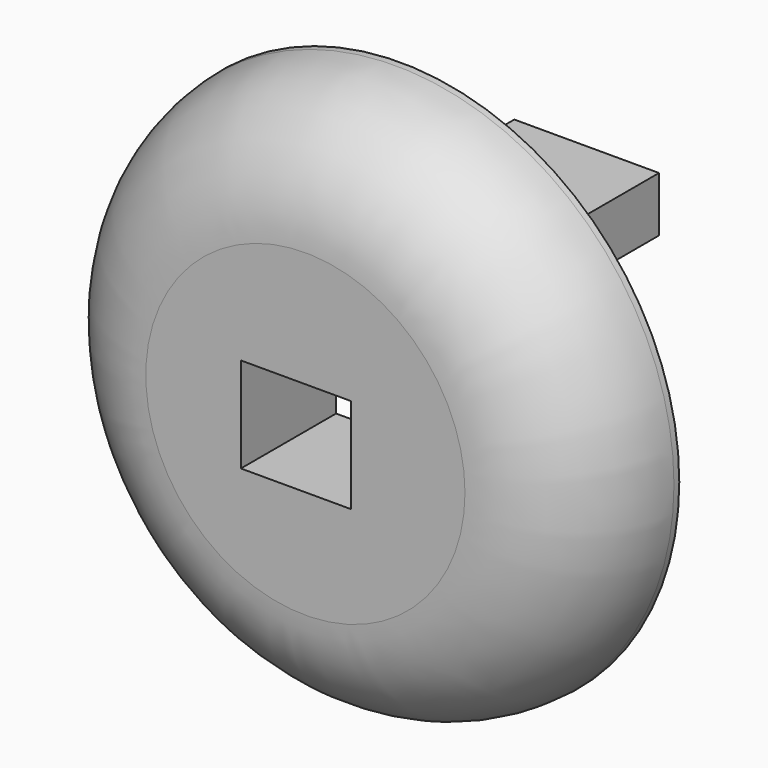
from build123d import *

# Parameters (mm, degrees)
F0_R     = 58.1865618052
F1_DEPTH = 25.4
F1_TAPER = -3
F2_W     = 23.4757708386
F2_H     = 20.3105555847
F3_DEPTH = 25.4
F4_R     = 25.4
F5_W     = 30.9055270627
F5_H     = 11.7483213544
F6_DEPTH = 25.4


with BuildPart() as f1:
    # F0 (on Front) → F1 (new body)
    with BuildSketch(Plane.XZ):
        Circle(F0_R)
    extrude(amount=-F1_DEPTH, taper=F1_TAPER)

    # F2 (on face) → F3 (cut, through all)
    with BuildSketch(Plane.XZ):
        with Locations((-2.031555865, -0.8121863939)):
            Rectangle(F2_W, F2_H)
    extrude(amount=-F3_DEPTH, mode=Mode.SUBTRACT)

    # F4
    f4_edges = [f1.edges().sort_by_distance(p)[0] for p in [
        (-58.186562, 0, 0),
    ]]
    fillet(f4_edges, radius=F4_R)

    # F5 (on face) → F6 (join)
    with BuildSketch(Plane(origin=(0, 25.4, 0), x_dir=(-1, 0, 0), z_dir=(0, 1, 0))):
        with Locations((-19.417067524, 33.8719151914)):
            Rectangle(F5_W, F5_H)
    extrude(amount=F6_DEPTH)


solid = f1.part
